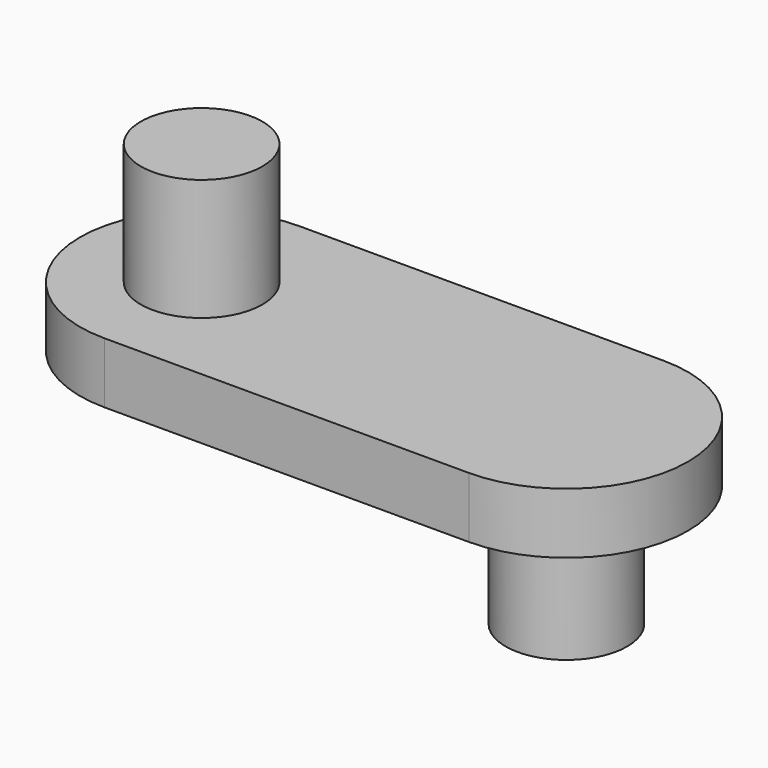
from build123d import *

# Parameters (mm, degrees)
F1_DEPTH = 5
F2_R     = 5
F3_DEPTH = 10
F4_R     = 5
F5_DEPTH = 10


with BuildPart() as f1:
    # F0 (on Top) → F1 (new body)
    with BuildSketch(Plane.XY):
        with BuildLine():
            Line((15, 10), (-15, 10))
            ThreePointArc((-15, 10), (-25, 0), (-15, -10))
            Line((-15, -10), (15, -10))
            ThreePointArc((15, -10), (25, 0), (15, 10))
        make_face()
    extrude(amount=F1_DEPTH)

    # F2 (on face) → F3 (join)
    with BuildSketch(Plane.XY.offset(5)):
        with Locations((-15, 0)):
            Circle(F2_R)
    extrude(amount=F3_DEPTH)

    # F4 (on face) → F5 (join)
    with BuildSketch(Plane(origin=(0, 0, 0), x_dir=(1, 0, 0), z_dir=(0, 0, -1))):
        with Locations((15, 0)):
            Circle(F4_R)
    extrude(amount=F5_DEPTH)


solid = f1.part
